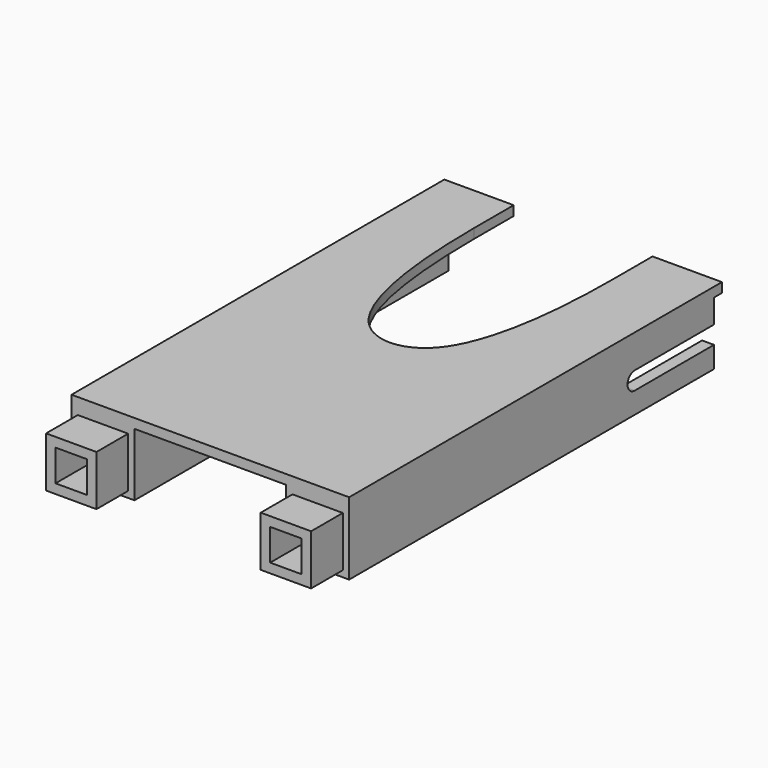
from build123d import *

# Parameters (mm, degrees)
F0_W      = 140
F0_H      = 110
F0_W_2    = 35
F0_H_2    = 25
F1_DEPTH  = 4.826
F2_W      = 31.75
F2_H      = 31.75
F2_W_2    = 25.4
F2_H_2    = 25.4
F3_DEPTH  = 120
F4_W      = 6
F4_H      = 31.75
F4_W_2    = 2.825
F4_H_2    = 25.4
F5_DEPTH  = 110
F6_R      = 3
F7_DEPTH  = 10
F8_W      = 25.4
F8_H      = 25.4
F8_W_2    = 15.874
F8_H_2    = 15.874
F9_DEPTH  = 20
F11_DEPTH = 152


with BuildPart() as f1:
    # F0 (on Top) → F1 (new body)
    with BuildSketch(Plane.XY):
        with Locations((3.5, 55)):
            Rectangle(F0_W, F0_H)
        with BuildLine():
            Line((-66.5, 210), (-66.5, 110))
            Line((-66.5, 110), (73.5, 110))
            Line((73.5, 110), (73.5, 210))
            Line((73.5, 210), (38.5, 210))
            add(Edge.make_bspline(
                [(-31.5, 210), (-31.5, 178), (-26.1927577262, 110.7427430843), (33.1927577262, 110.7427430843), (38.5, 178), (38.5, 210)],
                knots=[0, 0, 0, 0, 0.3861272069, 0.6138727931, 1, 1, 1, 1], degree=3))
            Line((-31.5, 210), (-66.5, 210))
        make_face()
        with Locations((-49, 222.5)):
            Rectangle(F0_W_2, F0_H_2)
        with Locations((56, 222.5)):
            Rectangle(F0_W_2, F0_H_2)
    extrude(amount=F1_DEPTH)

    # F2 (on face) → F3 (join)
    with BuildSketch(Plane.XZ):
        with Locations((-50.625, -15.875)):
            Rectangle(F2_W, F2_H)
        with Locations((-50.625, -15.875)):
            Rectangle(F2_W_2, F2_H_2, mode=Mode.SUBTRACT)
        with Locations((57.625, -15.875)):
            Rectangle(F2_W, F2_H)
        with Locations((57.625, -15.875)):
            Rectangle(F2_W_2, F2_H_2, mode=Mode.SUBTRACT)
    extrude(amount=-F3_DEPTH)

    # F4 (on face) → F5 (join)
    with BuildSketch(Plane(origin=(0, 120, 0), x_dir=(-1, 0, 0), z_dir=(0, 1, 0))):
        with Locations((63.5, -15.875)):
            Rectangle(F4_W, F4_H)
        with Locations((-68.9125, -15.875)):
            Rectangle(F4_W_2, F4_H_2)
        Polygon((-67.5, 0), (-73.5, 0), (-73.5, -31.75), (-70.325, -31.75), (-67.5, -31.75), (-67.5, -28.575), (-70.325, -28.575), (-70.325, -3.175), (-67.5, -3.175), align=None)
    extrude(amount=F5_DEPTH)

    # F6 (on face) → F7 (cut)
    with BuildSketch(Plane.YZ.offset(-34.75)):
        with Locations((60, -10)):
            Circle(F6_R)
    extrude(amount=-F7_DEPTH, mode=Mode.SUBTRACT)

    # F8 (on face) → F9 (join, symmetric)
    with BuildSketch(Plane.XZ):
        with Locations((-50.625, -15.875)):
            Rectangle(F8_W, F8_H)
        with Locations((-50.625, -15.875)):
            Rectangle(F8_W_2, F8_H_2, mode=Mode.SUBTRACT)
        with Locations((57.625, -15.875)):
            Rectangle(F8_W, F8_H)
        with Locations((57.625, -15.875)):
            Rectangle(F8_W_2, F8_H_2, mode=Mode.SUBTRACT)
    extrude(amount=F9_DEPTH, both=True)

    # F10 (on face) → F11 (cut)
    with BuildSketch(Plane(origin=(-66.5, 0, 0), x_dir=(0, -1, 0), z_dir=(-1, 0, 0))):
        with BuildLine():
            ThreePointArc((-180, -21), (-176.8180194847, -19.6819805153), (-175.5, -16.5))
            ThreePointArc((-175.5, -16.5), (-176.8180194847, -13.3180194847), (-180, -12))
            Line((-180, -12), (-180, -16.5))
            Line((-180, -16.5), (-180, -21))
        make_face()
        with BuildLine():
            Line((-180, -16.5), (-180, -12))
            ThreePointArc((-180, -12), (-184.5, -16.5), (-180, -21))
            Line((-180, -21), (-180, -16.5))
        make_face()
        with BuildLine():
            ThreePointArc((-180, -21), (-184.5, -16.5), (-180, -12))
            Line((-180, -12), (-230, -12))
            Line((-230, -12), (-230, -21))
            Line((-230, -21), (-180, -21))
        make_face()
    extrude(amount=-F11_DEPTH, mode=Mode.SUBTRACT)


solid = f1.part
